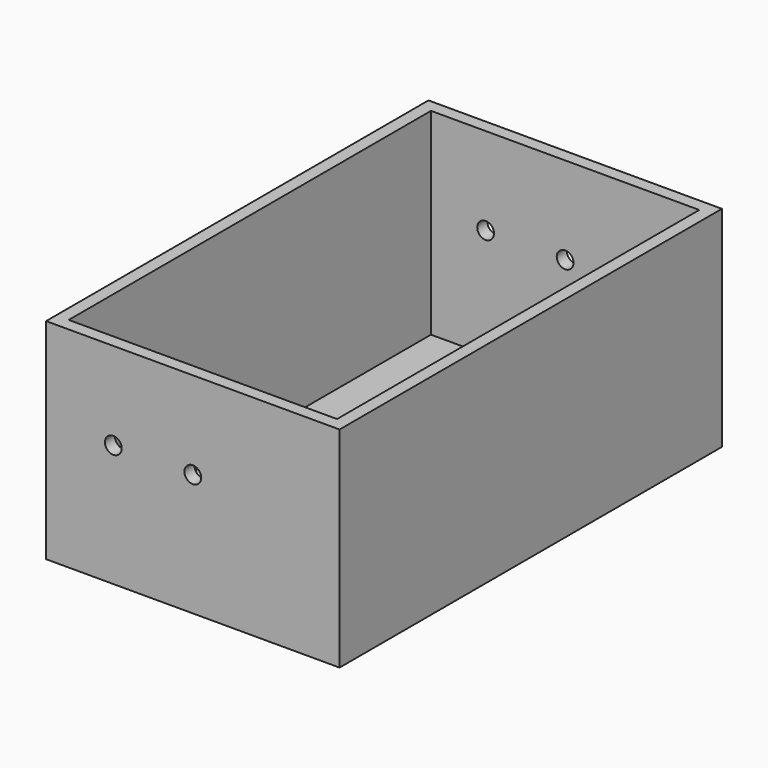
from build123d import *

# Parameters (mm, degrees)
F0_W     = 35
F0_H     = 57
F1_DEPTH = 25
F2_T     = -1.5
F4_D     = 2


with BuildPart() as f1:
    # F0 (on Top) → F1 (new body)
    with BuildSketch(Plane.XY):
        Rectangle(F0_W, F0_H)
    extrude(amount=F1_DEPTH)

    # F2
    f2_openings = [f1.faces().sort_by_distance(p)[0] for p in [
        (0, 0, 25),
    ]]
    offset(amount=F2_T, openings=f2_openings)

    # F4 (through all)
    with Locations(Plane.XZ.offset(28.5)):
        with Locations((-9.480757, 14.56372), (0, 14.56372)):
            Hole(F4_D / 2)


solid = f1.part
